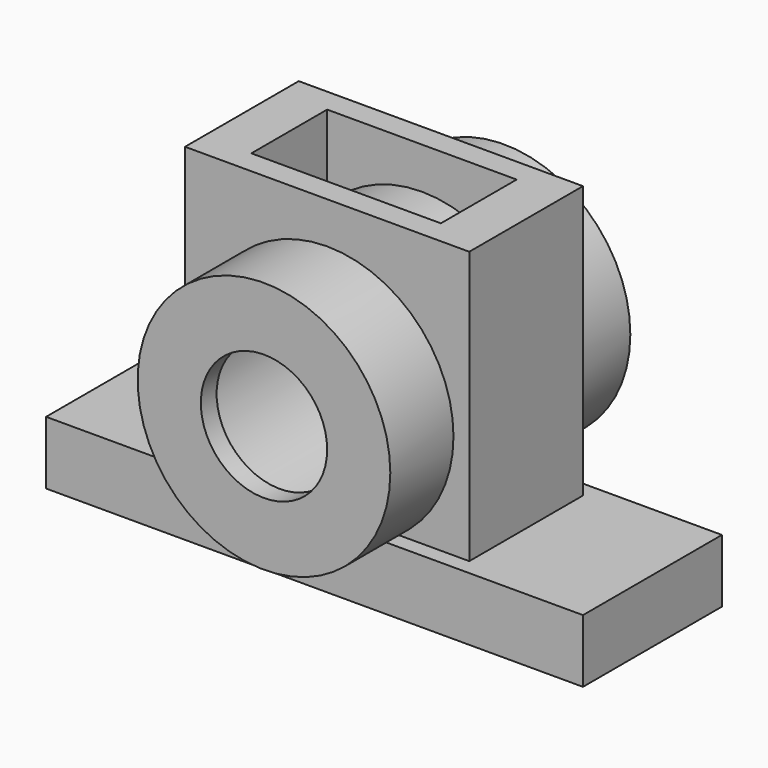
from build123d import *

# Parameters (mm, degrees)
F0_R      = 32
F0_R_2    = 16
F1_DEPTH  = 38
F3_DEPTH  = 42.5
F3_FACE_R = 16
F4_DEPTH  = 56.001
F5_W      = 136
F5_H      = 44
F6_DEPTH  = 16
F7_R      = 25
F8_DEPTH  = 33


with BuildPart() as f1:
    # F0 (on Front) → F1 (new body, symmetric)
    with BuildSketch(Plane.XZ):
        Circle(F0_R)
        Circle(F0_R_2, mode=Mode.SUBTRACT)
    extrude(amount=F1_DEPTH, both=True)

    # F2 (on Top) → F3 (join, symmetric)
    with BuildSketch(Plane.XY):
        Polygon((24, 12), (0, 12), (-24, 12), (-24, -12), (24, -12), align=None)
        Polygon((0, 18), (-36, 18), (-36, -18), (36, -18), (36, 18), align=None)
        Polygon((-24, 12), (0, 12), (24, 12), (24, -12), (-24, -12), align=None, mode=Mode.SUBTRACT)
    extrude(amount=F3_DEPTH, both=True)

    # F3_face (on face) → F4 (cut, through all)
    with BuildSketch(Plane.XZ.offset(18)):
        Circle(F3_FACE_R)
    extrude(amount=-F4_DEPTH, mode=Mode.SUBTRACT)

    # F5 (on face) → F6 (join)
    with BuildSketch(Plane(origin=(0, 0, -42.5), x_dir=(1, 0, 0), z_dir=(0, 0, -1))):
        Rectangle(F5_W, F5_H)
    extrude(amount=-F6_DEPTH)

    # F7 (on Front) → F8 (cut, symmetric)
    with BuildSketch(Plane.XZ):
        Circle(F7_R)
    extrude(amount=F8_DEPTH, both=True, mode=Mode.SUBTRACT)


solid = f1.part
